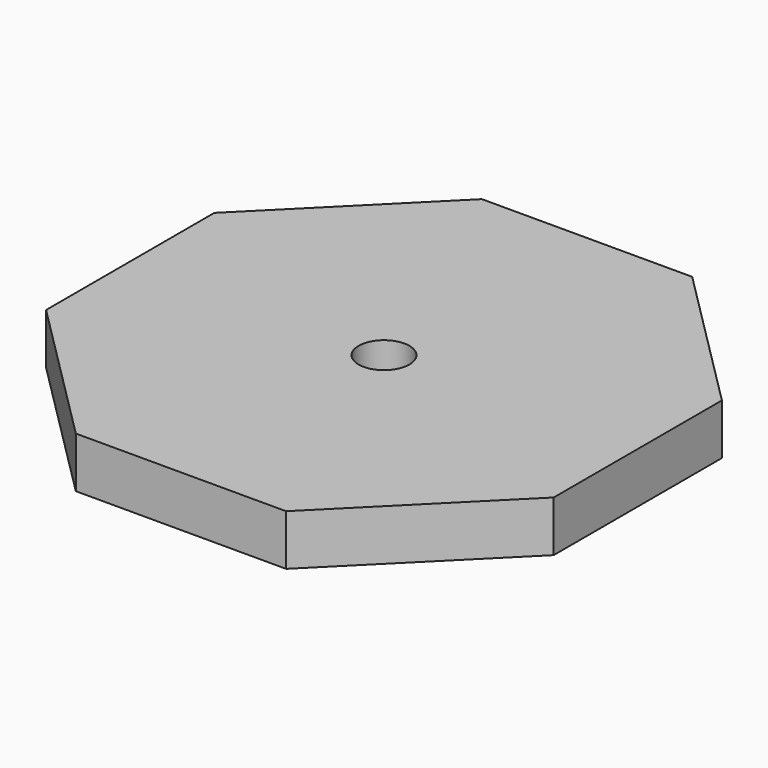
from build123d import *

# Parameters (mm, degrees)
F1_DEPTH = 6.35
F2_R     = 3.175
F3_DEPTH = 25.4


with BuildPart() as f1:
    # F0 (on Top) → F1 (new body)
    with BuildSketch(Plane.XY):
        Polygon((-31.75, 13.1512806053), (-31.75, -13.1512806053), (-13.1512806053, -31.75), (13.1512806053, -31.75), (31.75, -13.1512806053), (31.75, 13.1512806053), (13.1512806053, 31.75), (-13.1512806053, 31.75), align=None)
    extrude(amount=F1_DEPTH)

    # F2 (on face) → F3 (cut)
    with BuildSketch(Plane.XY.offset(6.35)):
        Circle(F2_R)
    extrude(amount=-F3_DEPTH, mode=Mode.SUBTRACT)


solid = f1.part
